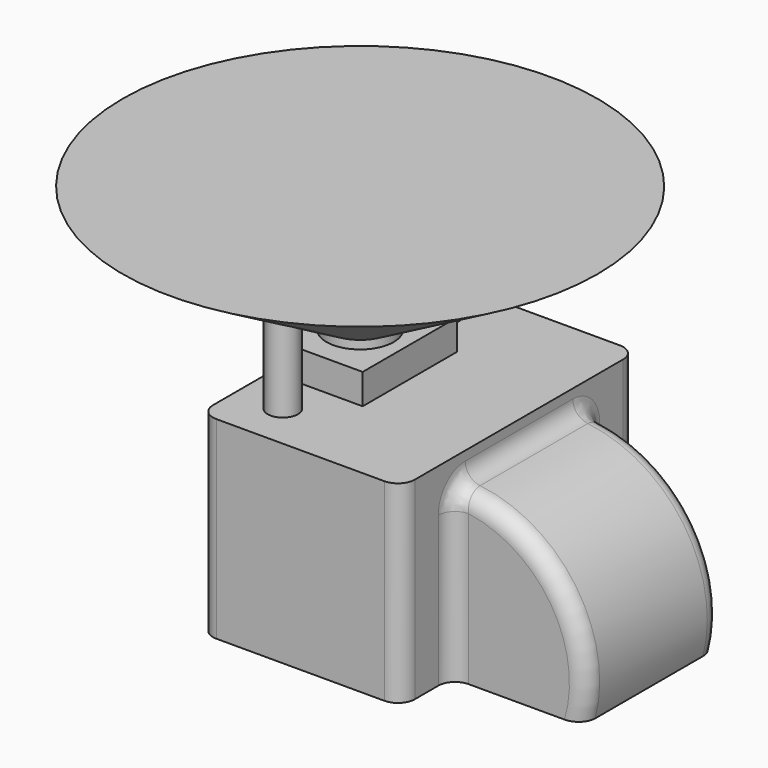
from build123d import *

# Parameters (mm, degrees)
SKETCH_W       = 12
SKETCH_H       = 17.5
PAD_DEPTH      = 1.5
PAD_DEPTH_BACK = 10
SKETCH001_R    = 0.9
PAD001_DEPTH   = 10
PAD002_DEPTH   = 5
FILLET_R       = 1
FILLET001_R    = 1
FILLET002_R    = 1
SKETCH003_W    = 5.5
SKETCH003_H    = 7
PAD003_DEPTH   = 1.8
SKETCH004_R    = 2
PAD004_DEPTH   = 0.5
SKETCH005_R    = 2
PAD005_DEPTH   = 7
PAD005_TAPER   = -60


with BuildPart() as part:
    # Sketch → Pad (new body, two sides)
    with BuildSketch(Plane.XY) as pad_sk:
        Rectangle(SKETCH_W, SKETCH_H)
    extrude(amount=PAD_DEPTH)
    extrude(pad_sk.sketch, amount=-PAD_DEPTH_BACK)

    # Sketch001 → Pad001 (join)
    with BuildSketch(Plane.XY):
        with Locations((-3.25, 6)):
            Circle(SKETCH001_R)
        with Locations((-3.25, -6)):
            Circle(SKETCH001_R)
    extrude(amount=PAD001_DEPTH)

    # Sketch002 → Pad002 (join, symmetric)
    with BuildSketch(Plane.XZ):
        with BuildLine():
            ThreePointArc((13.745967, -10), (12.324555, -3.101021), (6, 0))
            Line((6, -10), (6, 0))
            Line((13.745967, -10), (6, -10))
        make_face()
    extrude(amount=PAD002_DEPTH, both=True)

    # Fillet
    fillet_edges = [part.edges().sort_by_distance(p)[0] for p in [
        (6, -8.75, -4.25),
        (-6, -8.75, -4.25),
        (6, 8.75, -4.25),
        (-6, 8.75, -4.25),
    ]]
    fillet(fillet_edges, radius=FILLET_R)

    # Fillet001
    fillet001_edges = [part.edges().sort_by_distance(p)[0] for p in [
        (12.324555, -5, -3.101021),
        (12.324555, 5, -3.101021),
    ]]
    fillet(fillet001_edges, radius=FILLET001_R)

    # Fillet002
    fillet002_edges = [part.edges().sort_by_distance(p)[0] for p in [
        (6, -5, -5.5),
    ]]
    fillet(fillet002_edges, radius=FILLET002_R)

    # Sketch003 (on Face6 of Fillet002) → Pad003 (join)
    with BuildSketch(Plane.XY.offset(1.5)):
        with Locations((-3.25, 0)):
            Rectangle(SKETCH003_W, SKETCH003_H)
    extrude(amount=PAD003_DEPTH)

    # Sketch004 (on Face28 of Pad003) → Pad004 (join)
    with BuildSketch(Plane.XY.offset(3.3)):
        with Locations((-3.25, -0.25)):
            Circle(SKETCH004_R)
    extrude(amount=PAD004_DEPTH)

    # Sketch005 (on Face32 of Pad004) → Pad005 (join)
    with BuildSketch(Plane.XY.offset(3.8)):
        with Locations((-3.25, -0.25)):
            Circle(SKETCH005_R)
    extrude(amount=PAD005_DEPTH, taper=PAD005_TAPER)


solid = part.part
